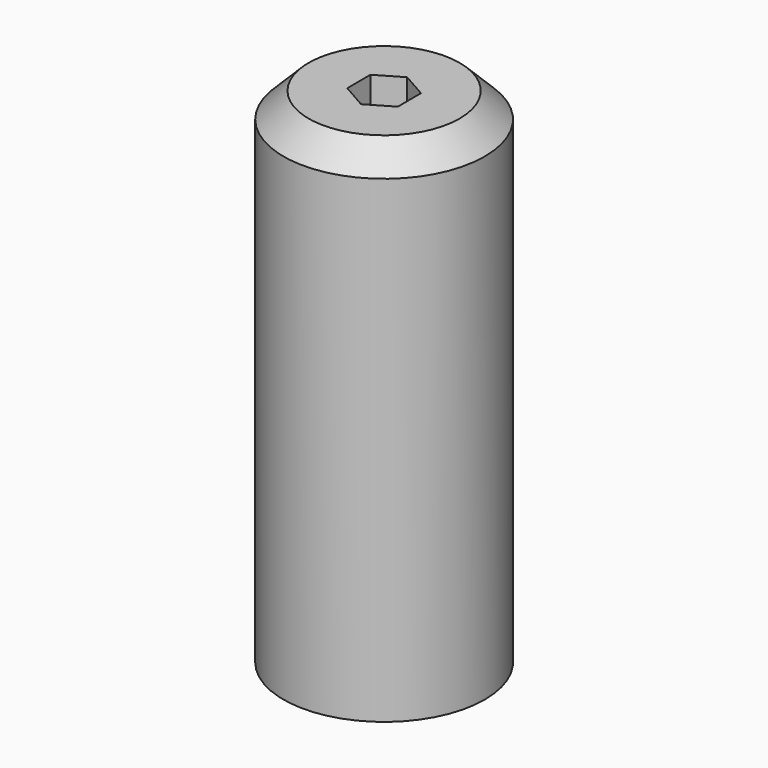
from build123d import *

# Parameters (mm, degrees)
F0_R     = 20
F1_DEPTH = 100
F2_SIZE  = 5
F4_DEPTH = 100.001


with BuildPart() as f1:
    # F0 (on Top) → F1 (new body)
    with BuildSketch(Plane.XY):
        Circle(F0_R)
    extrude(amount=F1_DEPTH)

    # F2
    f2_edges = [f1.edges().sort_by_distance(p)[0] for p in [
        (-20, 0, 100),
    ]]
    chamfer(f2_edges, length=F2_SIZE)

    # F3 (on face) → F4 (cut, through all)
    with BuildSketch(Plane.XY.offset(100)):
        Polygon((0.03937, -5.773368), (5.019569, -2.852589), (4.980199, 2.920779), (-0.03937, 5.773368), (-5.019569, 2.852589), (-4.980199, -2.920779), align=None)
    extrude(amount=-F4_DEPTH, mode=Mode.SUBTRACT)


solid = f1.part
